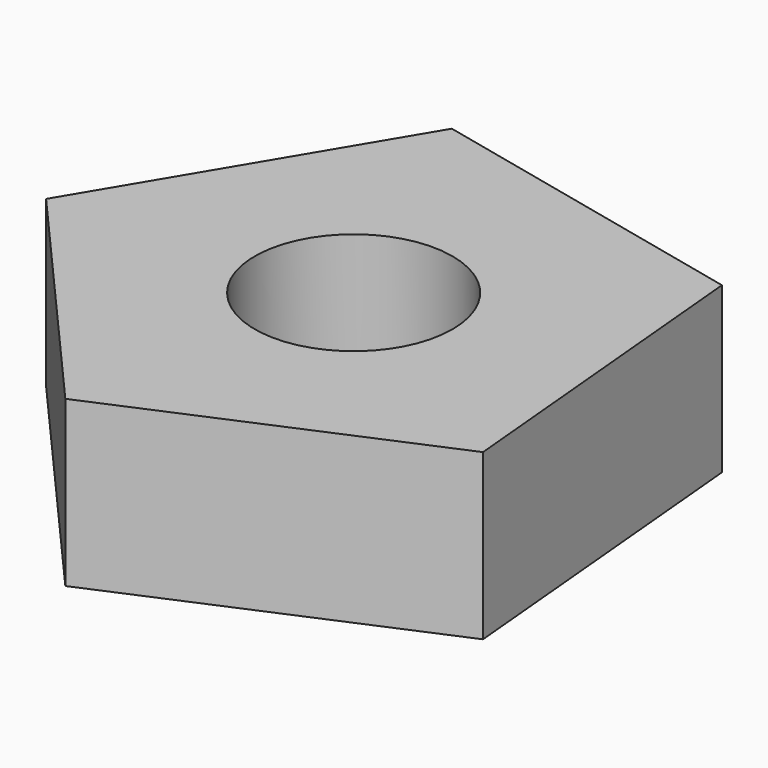
from build123d import *

# Parameters (mm, degrees)
F1_DEPTH = 15
F2_R     = 9
F3_DEPTH = 18


with BuildPart() as f1:
    # F0 (on Top) → F1 (new body)
    with BuildSketch(Plane.XY):
        Polygon((-5.802325, -25.549469), (22.505972, -13.413559), (19.711781, 17.259434), (-10.323421, 24.080476), (-26.092006, -2.376881), align=None)
    extrude(amount=F1_DEPTH)

    # F2 (on face) → F3 (cut)
    with BuildSketch(Plane.XY.offset(15)):
        Circle(F2_R)
    extrude(amount=-F3_DEPTH, mode=Mode.SUBTRACT)


solid = f1.part
